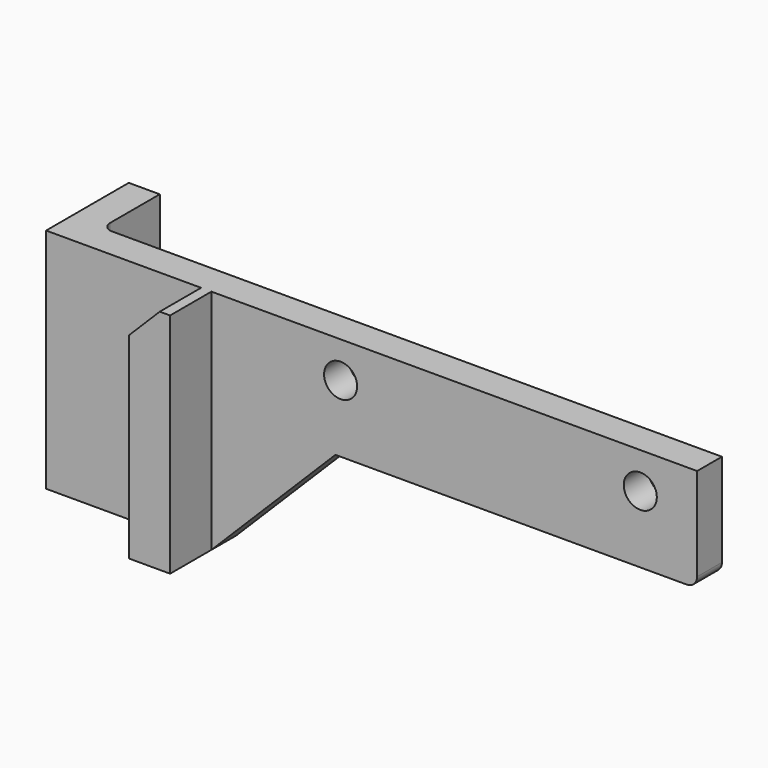
from build123d import *

# Parameters (mm, degrees)
CYLINDER033_R          = 1.6
CYLINDER033_DEPTH      = 10
CYLINDER033_ROLL_ANGLE = -90
CYLINDER032_R          = 1.6
CYLINDER032_DEPTH      = 10
CYLINDER032_ROLL_ANGLE = -90
BOX029_W               = 3
BOX029_H               = 10
BOX029_DEPTH           = 22
BOX031_W               = 4
BOX031_H               = 7
BOX031_DEPTH           = 22
BOX030_W               = 26
BOX030_H               = 3
BOX030_DEPTH           = 21
CHAMFER006_SIZE        = 12
BOX028_W               = 61
BOX028_H               = 3
BOX028_DEPTH           = 10
CHAMFER007_SIZE        = 3
FILLET026_R            = 1


with BuildPart() as cylinder033:
    # Cylinder033 → Cylinder033 (new body)
    with BuildSketch(Plane.XY):
        Circle(CYLINDER033_R)
    extrude(amount=CYLINDER033_DEPTH)


with BuildPart() as cylinder033_1:
    # Cylinder033 roll: moved
    add(cylinder033.part.rotate(Axis((0, 0, 0), (1, 0, 0)), CYLINDER033_ROLL_ANGLE))


with BuildPart() as cylinder033_2:
    # Cylinder033 placement: moved
    add(cylinder033_1.part.moved(Location((-15.5, 30, 38.5))))


with BuildPart() as fusion029:
    # Cylinder032 → Cylinder032 (new body)
    with BuildSketch(Plane.XY):
        Circle(CYLINDER032_R)
    extrude(amount=CYLINDER032_DEPTH)


with BuildPart() as fusion029_1:
    # Cylinder032 roll: moved
    add(fusion029.part.rotate(Axis((0, 0, 0), (1, 0, 0)), CYLINDER032_ROLL_ANGLE))


with BuildPart() as fusion029_2:
    # Cylinder032 placement: moved
    add(fusion029_1.part.moved(Location((-44.5, 30, 38.5))))

    # Fusion029: union Cylinder033
    add(cylinder033_2.part)


with BuildPart() as cube029:
    # Box029 → Box029 (new body)
    with BuildSketch(Plane(origin=(-73, 35, 20), x_dir=(1, 0, 0), z_dir=(0, 0, 1))):
        with Locations((1.5, 5)):
            Rectangle(BOX029_W, BOX029_H)
    extrude(amount=BOX029_DEPTH)


with BuildPart() as cube031:
    # Box031 → Box031 (new body)
    with BuildSketch(Plane(origin=(-61, 30, 20), x_dir=(1, 0, 0), z_dir=(0, 0, 1))):
        with Locations((2, 3.5)):
            Rectangle(BOX031_W, BOX031_H)
    extrude(amount=BOX031_DEPTH)


with BuildPart() as chamfer006:
    # Box030 → Box030 (new body)
    with BuildSketch(Plane(origin=(-71, 35, 20), x_dir=(1, 0, 0), z_dir=(0, 0, 1))):
        with Locations((13, 1.5)):
            Rectangle(BOX030_W, BOX030_H)
    extrude(amount=BOX030_DEPTH)

    # Chamfer006
    chamfer006_edges = [chamfer006.edges().sort_by_distance(p)[0] for p in [
        (-45, 36.5, 20),
    ]]
    chamfer(chamfer006_edges, length=CHAMFER006_SIZE)


with BuildPart() as fillet026:
    # Box028 → Box028 (new body)
    with BuildSketch(Plane(origin=(-71, 35, 32), x_dir=(1, 0, 0), z_dir=(0, 0, 1))):
        with Locations((30.5, 1.5)):
            Rectangle(BOX028_W, BOX028_H)
    extrude(amount=BOX028_DEPTH)

    # Fusion026: union Chamfer006
    add(chamfer006.part)

    # Fusion027: union Cube031
    add(cube031.part)

    # Fusion028: union Cube029
    add(cube029.part)

    # Chamfer007
    chamfer007_edges = [fillet026.edges().sort_by_distance(p)[0] for p in [
        (-61, 32.5, 42),
    ]]
    chamfer(chamfer007_edges, length=CHAMFER007_SIZE)

    # Cut037: cut Fusion029
    add(fusion029_2.part, mode=Mode.SUBTRACT)

    # Fillet026
    fillet026_edges = [fillet026.edges().sort_by_distance(p)[0] for p in [
        (-10, 36.5, 32),
        (-70, 38, 31),
    ]]
    fillet(fillet026_edges, radius=FILLET026_R)


solid = fillet026.part
